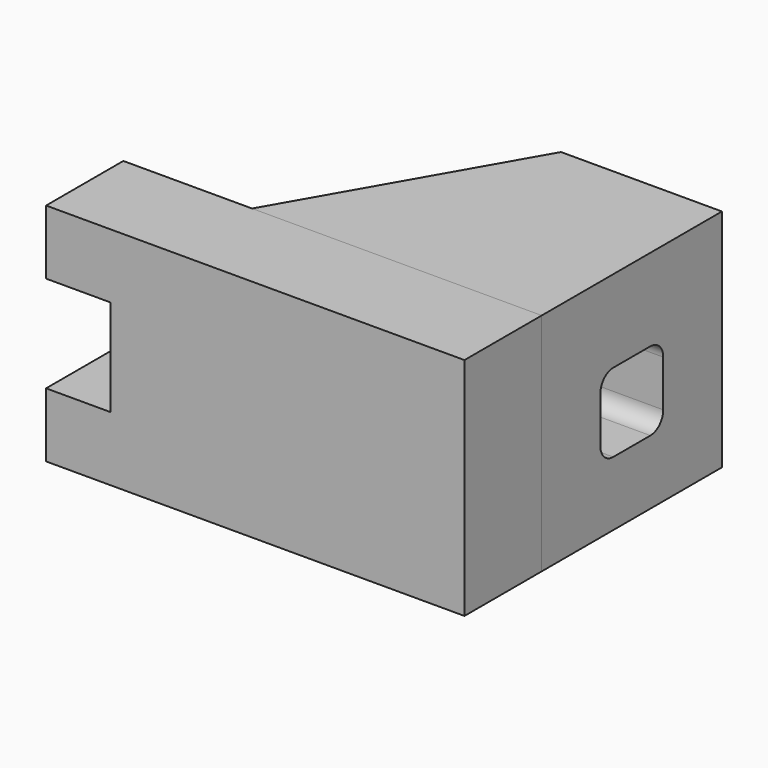
from build123d import *

# Parameters (mm, degrees)
F0_W     = 20
F0_H     = 20
F1_DEPTH = 30
F3_DEPTH = 70
F5_DEPTH = 1000


with BuildPart() as f1:
    # F0 (on Front) → F1 (new body)
    with BuildSketch(Plane.XZ):
        with Locations((-78.84601, 19.794804)):
            Rectangle(F0_W, F0_H)
        Polygon((41.15399, 29.794804), (-68.84601, 29.794804), (-68.84601, 9.794804), (-68.84601, -20.205196), (-68.84601, -40.205196), (41.15399, -40.205196), align=None)
        with Locations((-78.84601, -30.205196)):
            Rectangle(F0_W, F0_H)
    extrude(amount=F1_DEPTH)


with BuildPart() as f3:
    # F2 (on face) → F3 (new body)
    with BuildSketch(Plane.XY.offset(29.794804)):
        Polygon((-48.84601, 0), (41.15399, 0), (41.15399, 70), (-8.84601, 70), align=None)
    extrude(amount=-F3_DEPTH)

    # F4 (on face) → F5 (cut)
    with BuildSketch(Plane.YZ.offset(41.15399)):
        with BuildLine():
            ThreePointArc((27.790433, 4.213938), (24.254899, 2.749472), (22.790433, -0.786062))
            Line((22.790433, -0.786062), (22.790433, -15.205196))
            ThreePointArc((22.790433, -15.205196), (24.254899, -18.740729), (27.790433, -20.205196))
            Line((27.790433, -20.205196), (42.209567, -20.205196))
            ThreePointArc((42.209567, -20.205196), (45.745101, -18.740729), (47.209567, -15.205196))
            Line((47.209567, -15.205196), (47.209567, -0.786062))
            ThreePointArc((47.209567, -0.786062), (45.745101, 2.749472), (42.209567, 4.213938))
            Line((42.209567, 4.213938), (27.790433, 4.213938))
        make_face()
    extrude(amount=-F5_DEPTH, mode=Mode.SUBTRACT)


solid = Compound([f1.part, f3.part])
